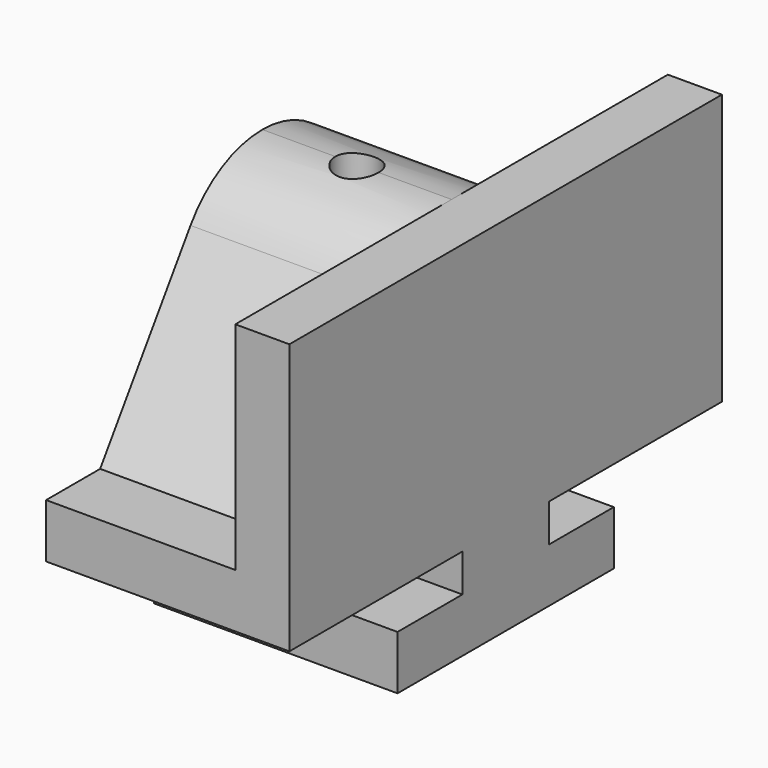
from build123d import *

# Parameters (mm, degrees)
F1_DEPTH = 57.15
F2_R     = 12.7
F3_DEPTH = 44.45
F4_R     = 5.08
F5_DEPTH = 15.24


with BuildPart() as f1:
    # F0 (on Right) → F1 (new body)
    with BuildSketch(Plane.YZ):
        Polygon((-31.75, 12.7), (-31.75, 0), (31.75, 0), (31.75, 12.7), (12.7, 12.7), (12.7, 21.59), (63.5, 21.59), (63.5, 85.09), (-63.5, 85.09), (-63.5, 21.59), (-12.7, 21.59), (-12.7, 12.7), align=None)
    extrude(amount=F1_DEPTH)

    # F2 (on face) → F3 (cut)
    with BuildSketch(Plane(origin=(0, 0, 0), x_dir=(0, -1, 0), z_dir=(-1, 0, 0))):
        with BuildLine():
            Line((-63.5, 85.09), (-63.5, 34.29))
            Line((-63.5, 34.29), (-47.625, 34.29))
            Line((-47.625, 34.29), (-21.093426, 73.840173))
            ThreePointArc((-21.093426, 73.840173), (-11.952941, 82.101765), (0, 85.09))
            Line((0, 85.09), (-63.5, 85.09))
        make_face()
        with BuildLine():
            Line((63.5, 85.09), (0, 85.09))
            ThreePointArc((0, 85.09), (11.952941, 82.101765), (21.093426, 73.840173))
            Line((21.093426, 73.840173), (47.625, 34.29))
            Line((47.625, 34.29), (63.5, 34.29))
            Line((63.5, 34.29), (63.5, 85.09))
        make_face()
        with Locations((0, 59.69)):
            Circle(F2_R)
    extrude(amount=-F3_DEPTH, mode=Mode.SUBTRACT)

    # F4 (on face) → F5 (cut)
    with BuildSketch(Plane.XY.offset(85.09)):
        with Locations((22.225, 0)):
            Circle(F4_R)
    extrude(amount=-F5_DEPTH, mode=Mode.SUBTRACT)


solid = f1.part
